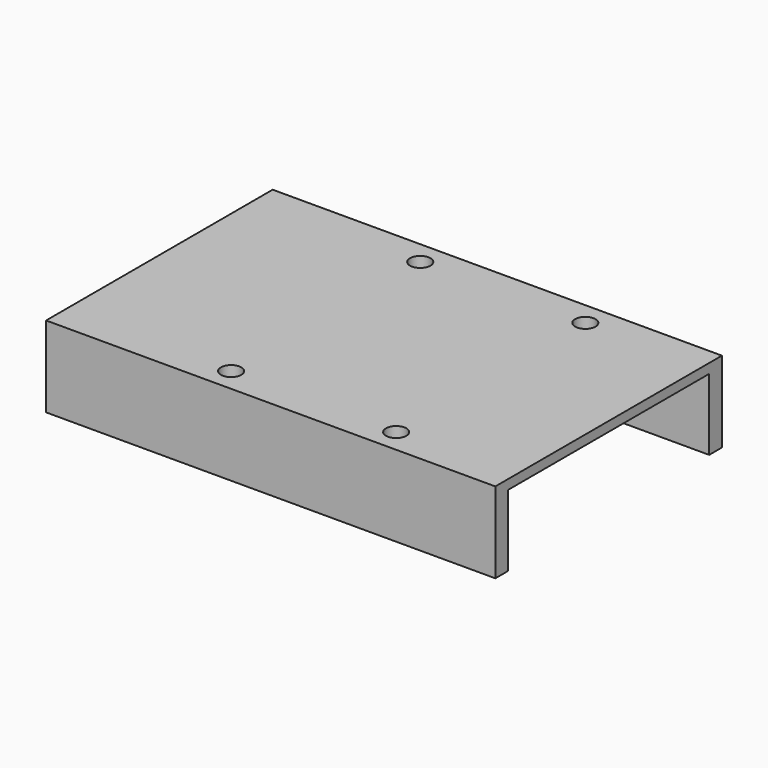
from build123d import *

# Parameters (mm, degrees)
SKETCH_W                = 70.5
SKETCH_H                = 44.45
PAD_DEPTH               = 12.7
SKETCH001_R             = 1.6
POCKET_DEPTH            = 181.311112
SKETCH001_MIRRORED_2_R  = 1.6
POCKET_MIRRORED_2_DEPTH = 181.311112
POCKET001_DEPTH         = 11.2


with BuildPart() as part:
    # Sketch → Pad (new body)
    with BuildSketch(Plane.XY):
        with Locations((-3.8, 0)):
            Rectangle(SKETCH_W, SKETCH_H)
    extrude(amount=PAD_DEPTH)

    # Sketch001 (on Face6 of Pad) → Pocket (cut, through all)
    with BuildSketch(Plane.XY.offset(12.7)):
        with Locations((-12.95, 18.55)):
            Circle(SKETCH001_R)
    pocket = extrude(amount=-POCKET_DEPTH, mode=Mode.SUBTRACT)

    # Sketch001 Mirrored 2 → Pocket Mirrored 2 (cut, through all)
    with BuildSketch(Plane(origin=(0, 0, 12.7), x_dir=(-1, 0, 0), z_dir=(0, 0, -1))):
        with Locations((-12.95, 18.55)):
            Circle(SKETCH001_MIRRORED_2_R)
    pocket_mirrored_2 = extrude(amount=POCKET_MIRRORED_2_DEPTH, mode=Mode.SUBTRACT)

    # Mirrored001: Pocket, Pocket Mirrored 2 across XZ
    add(pocket.mirror(Plane.XZ), mode=Mode.SUBTRACT)
    add(pocket_mirrored_2.mirror(Plane.XZ), mode=Mode.SUBTRACT)

    # Sketch002 (on Face4 of MultiTransform) → Pocket001 (cut)
    with BuildSketch(Plane(origin=(0, 0, 0), x_dir=(1, 0, 0), z_dir=(0, 0, -1))):
        with BuildLine():
            Line((-36.55, -19.725), (-36.55, 19.725))
            Line((-36.55, 19.725), (-17.05, 19.725))
            Line((-17.05, 19.725), (-17.05, 18.55))
            ThreePointArc((-17.05, 18.55), (-12.95, 14.45), (-8.85, 18.55))
            Line((-8.85, 19.725), (-8.85, 18.55))
            Line((-8.85, 19.725), (8.85, 19.725))
            Line((8.85, 19.725), (8.85, 18.55))
            ThreePointArc((8.85, 18.55), (12.95, 14.45), (17.05, 18.55))
            Line((17.05, 19.725), (17.05, 18.55))
            Line((31.45, 19.725), (17.05, 19.725))
            Line((31.45, 19.725), (31.45, -19.725))
            Line((31.45, -19.725), (17.05, -19.725))
            Line((17.05, -19.725), (17.05, -18.549981))
            ThreePointArc((17.05, -18.549981), (12.949999, -14.45), (8.85, -18.549983))
            Line((8.85, -19.725), (8.85, -18.549983))
            Line((-8.85, -19.725), (8.85, -19.725))
            Line((-8.85, -19.725), (-8.85, -18.55))
            ThreePointArc((-8.85, -18.55), (-12.95, -14.45), (-17.05, -18.55))
            Line((-17.05, -19.725), (-17.05, -18.55))
            Line((-36.55, -19.725), (-17.05, -19.725))
        make_face()
    extrude(amount=-POCKET001_DEPTH, mode=Mode.SUBTRACT)


solid = part.part
